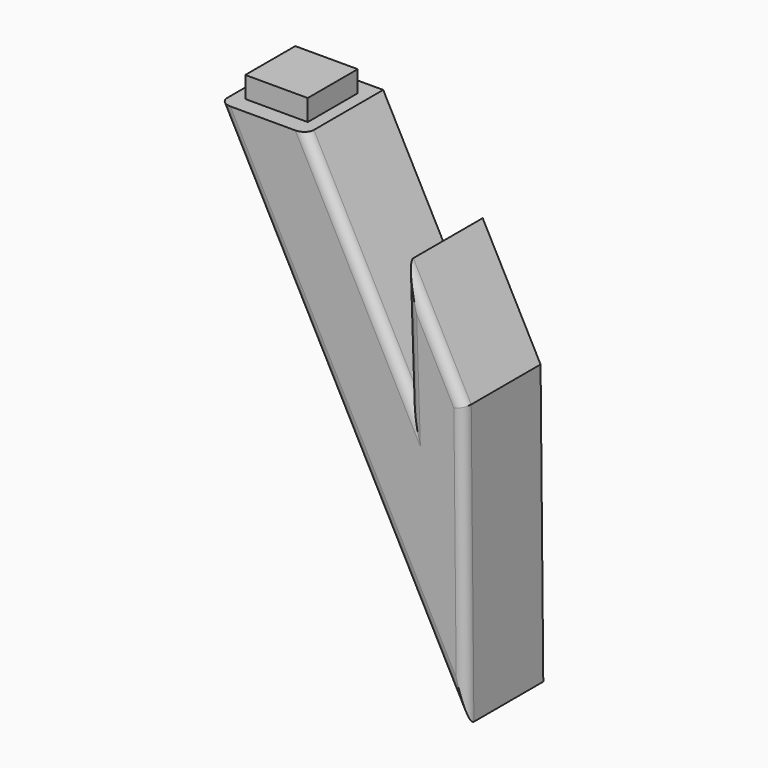
from build123d import *

# Parameters (mm, degrees)
F1_DEPTH = 10
F2_R     = 1
F3_W     = 6.485
F3_H     = 6.485
F4_DEPTH = 2.2


with BuildPart() as f1:
    # F0 (on Front) → F1 (new body)
    with BuildSketch(Plane.XZ):
        Polygon((-16.613121, 0), (-25.613121, 0), (0, -48.672046), (-0.281218, -19.773414), (-6.288659, -8.357607), (-5.897355, -20.351225), align=None)
    extrude(amount=F1_DEPTH)

    # F2
    f2_edges = [f1.edges().sort_by_distance(p)[0] for p in [
        (-12.806561, -10, -24.336023),
        (-11.255238, -10, -10.175613),
        (-6.093007, -10, -14.354416),
        (-3.284939, -10, -14.06551),
        (-0.140609, -10, -34.22273),
    ]]
    fillet(f2_edges, radius=F2_R)

    # F3 (on face) → F4 (join)
    with BuildSketch(Plane.XY):
        with Locations((-21.104121, -4.991)):
            Rectangle(F3_W, F3_H)
    extrude(amount=F4_DEPTH)


solid = f1.part
